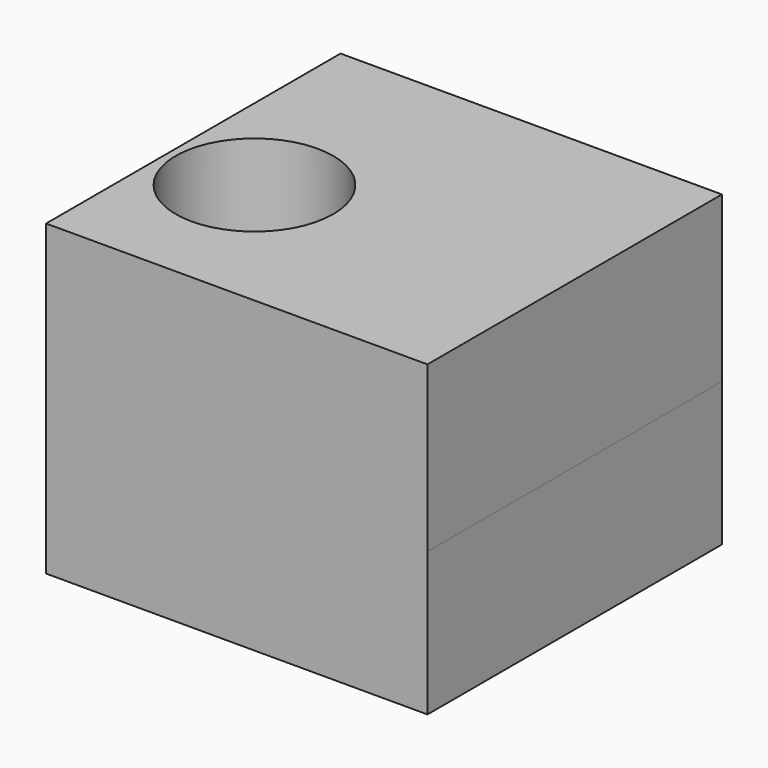
from build123d import *

# Parameters (mm, degrees)
F0_W     = 50.377183
F0_H     = 32.941623
F1_DEPTH = 84.5
F2_R     = 18.0935
F3_DEPTH = 70.757041


with BuildPart() as f1:
    # F0 (on Front) → F1 (new body)
    with BuildSketch(Plane.XZ):
        with Locations((4.320651, -9.02918)):
            Rectangle(F0_W, F0_H)
        Polygon((29.509243, 45.256048), (-58.047876, 45.256048), (-58.047876, -25.499992), (-20.86794, -25.499992), (-20.86794, 7.441631), (29.509243, 7.441631), align=None)
    extrude(amount=F1_DEPTH)

    # F2 (on face) → F3 (cut, through all)
    with BuildSketch(Plane.XY.offset(45.256048)):
        with Locations((-38.206983, -49.494803)):
            Circle(F2_R)
    extrude(amount=-F3_DEPTH, mode=Mode.SUBTRACT)


solid = f1.part
